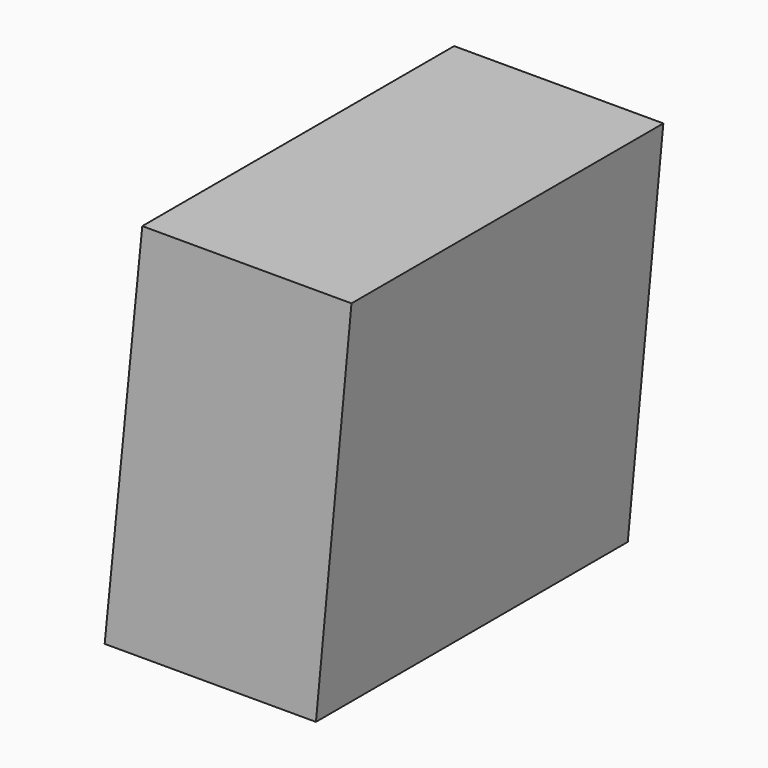
from build123d import *

# Parameters (mm, degrees)
F0_W     = 33.9496749554
F0_H     = 74.29
F1_DEPTH = 76.2


with BuildPart() as f1:
    # F0 (on Front) → F1 (new body)
    with BuildSketch(Plane.XZ):
        with Locations((-0.5514846322, 28.1239164163)):
            Rectangle(F0_W, F0_H)
        Polygon((23.3736778901, 65.2689164163), (16.4233528455, 65.2689164163), (16.4233528455, -9.0210835837), align=None)
        Polygon((-17.5263221099, -9.0210835837), (-17.5263221099, 65.2689164163), (-24.8776297376, -9.0210835837), align=None)
    extrude(amount=F1_DEPTH)


solid = f1.part
